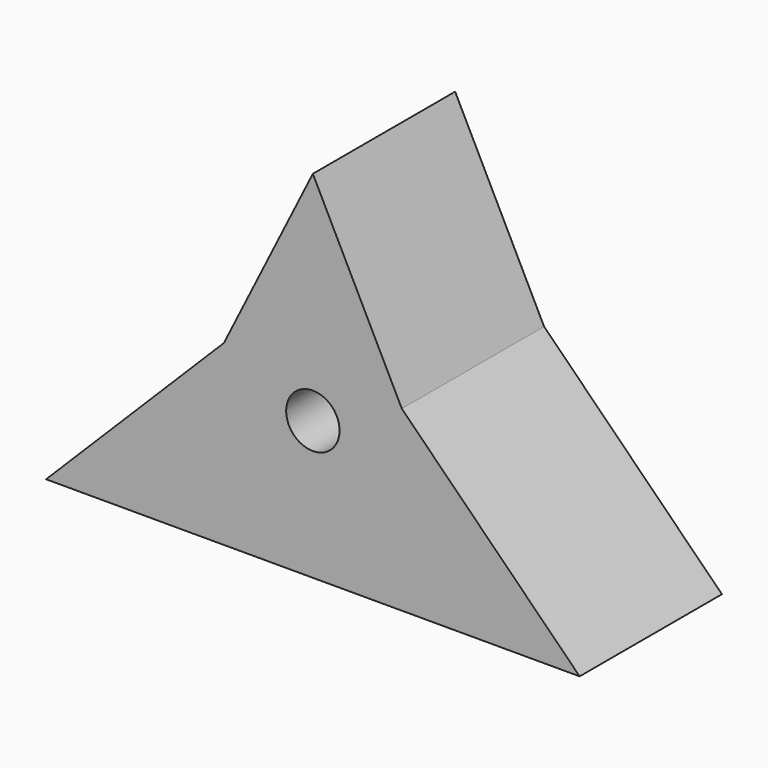
from build123d import *

# Parameters (mm, degrees)
F0_W     = 30
F0_H     = 10
F1_DEPTH = 10
F2_W     = 10
F2_H     = 10
F3_DEPTH = 10
F4_R     = 1.5
F5_DEPTH = 10.001
F7_DEPTH = 10.001


with BuildPart() as f1:
    # F0 (on Top) → F1 (new body)
    with BuildSketch(Plane.XY):
        Rectangle(F0_W, F0_H)
    extrude(amount=F1_DEPTH)

    # F2 (on face) → F3 (join)
    with BuildSketch(Plane.XY.offset(10)):
        Rectangle(F2_W, F2_H)
    extrude(amount=F3_DEPTH)

    # F4 (on face) → F5 (cut, through all)
    with BuildSketch(Plane.XZ.offset(5)):
        with Locations((0, 7.772714)):
            Circle(F4_R)
    extrude(amount=-F5_DEPTH, mode=Mode.SUBTRACT)

    # F6 (on face) → F7 (cut, through all)
    with BuildSketch(Plane.XZ.offset(5)):
        Polygon((-15, 0), (-5, 10), (-15, 10), align=None)
        Polygon((-5, 20), (-5, 10), (0, 20), align=None)
        Polygon((5, 20), (0, 20), (5, 10), align=None)
        Polygon((15, 10), (5, 10), (15, 0), align=None)
    extrude(amount=-F7_DEPTH, mode=Mode.SUBTRACT)


solid = f1.part
